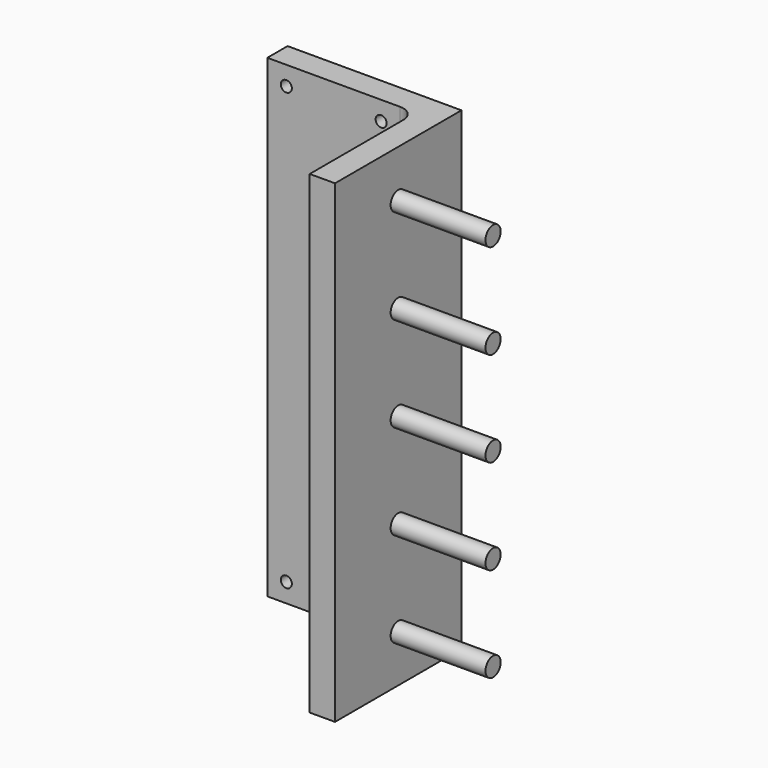
from build123d import *

# Parameters (mm, degrees)
F1_DEPTH = 150
F2_R     = 3
F3_DEPTH = 30
F4_R     = 1.75
F5_DEPTH = 8


with BuildPart() as f1:
    # F0 (on Top) → F1 (new body)
    with BuildSketch(Plane.XY):
        with BuildLine():
            Line((-49.501332, 43.352309), (-49.501332, 35.352309))
            Line((-49.501332, 35.352309), (-7.501332, 35.352309))
            ThreePointArc((-7.501332, 35.352309), (-3.965798, 33.887843), (-2.501332, 30.352309))
            Line((-2.501332, 30.352309), (-2.501332, -6.647691))
            Line((-2.501332, -6.647691), (5.498668, -6.647691))
            Line((5.498668, -6.647691), (5.498668, 43.352309))
            Line((5.498668, 43.352309), (-49.501332, 43.352309))
        make_face()
    extrude(amount=F1_DEPTH)

    # F2 (on face) → F3 (join)
    with BuildSketch(Plane.YZ.offset(5.498668)):
        with Locations((18.352309, 135)):
            Circle(F2_R)
        with Locations((18.352309, 105)):
            Circle(F2_R)
        with Locations((18.352309, 75)):
            Circle(F2_R)
        with Locations((18.352309, 45)):
            Circle(F2_R)
        with Locations((18.352309, 15)):
            Circle(F2_R)
    extrude(amount=F3_DEPTH)

    # F4 (on face) → F5 (cut)
    with BuildSketch(Plane.XZ.offset(-35.352309)):
        with Locations((-43.501332, 6)):
            Circle(F4_R)
        with Locations((-13.501332, 6)):
            Circle(F4_R)
        with Locations((-43.501332, 144)):
            Circle(F4_R)
        with Locations((-13.501332, 144)):
            Circle(F4_R)
    extrude(amount=-F5_DEPTH, mode=Mode.SUBTRACT)


solid = f1.part
